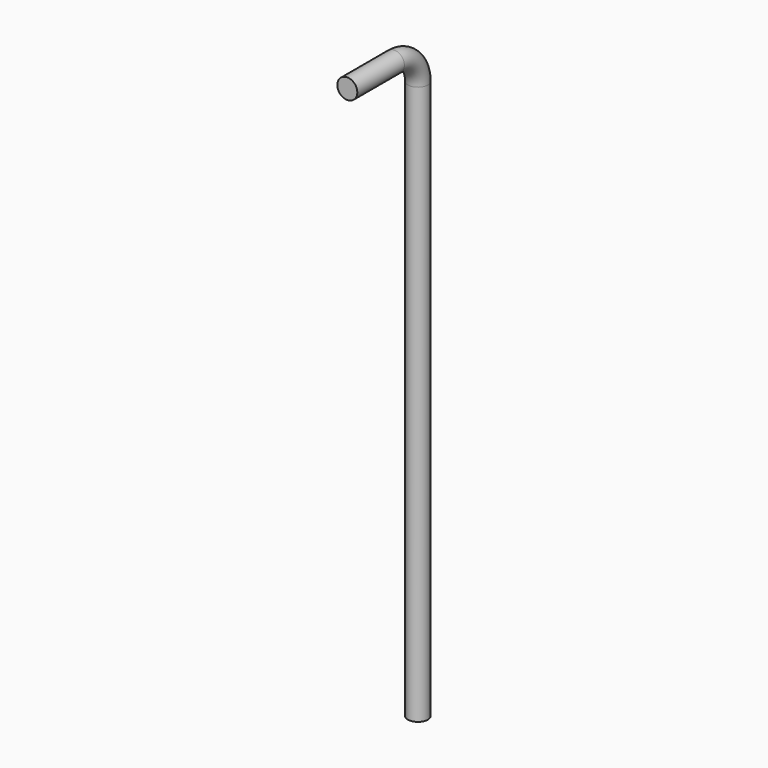
from build123d import *

# Parameters (mm, degrees)
F1_R = 17


with BuildPart() as f2:
    # F2: sweep along a path in F0
    with BuildLine(Plane.YZ) as f2_path:
        Line((0, 0), (0, 950))
        ThreePointArc((0, 950), (-14.644661, 985.355339), (-50, 1000))
        Line((-50, 1000), (-150, 1000))
    # F1 (on Top) → F2 (sweep)
    with BuildSketch(Plane.XY):
        Circle(F1_R)
    sweep(path=f2_path.line)


solid = f2.part
